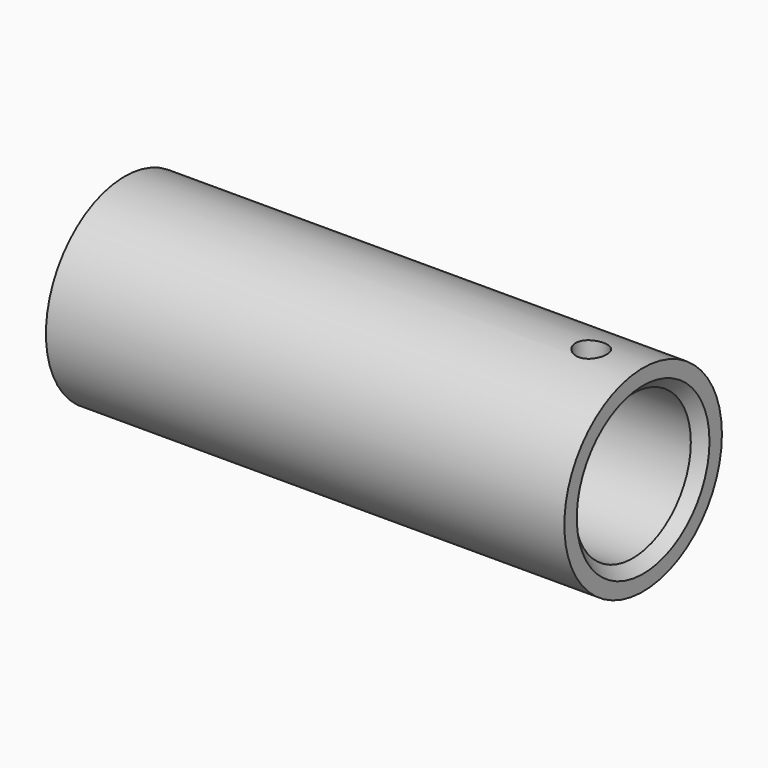
from build123d import *

# Parameters (mm, degrees)
F0_R     = 19
F0_R_2   = 14
F1_DEPTH = 100
F4_SIZE2 = 2
F4_SIZE  = 2
F5_D     = 6
F5_DEPTH = 15


with BuildPart() as f1:
    # F0 (on Right) → F1 (new body)
    with BuildSketch(Plane.YZ):
        Circle(F0_R)
        Circle(F0_R_2, mode=Mode.SUBTRACT)
    extrude(amount=F1_DEPTH)

    # F4
    f4_edges = [f1.edges().sort_by_distance(p)[0] for p in [
        (100, -14, 0),
    ]]
    chamfer(f4_edges, length=F4_SIZE, length2=F4_SIZE2)

    # F5
    with Locations(Plane.XY.offset(19)):
        with Locations((90, 0)):
            Hole(F5_D / 2, depth=F5_DEPTH)


solid = f1.part
